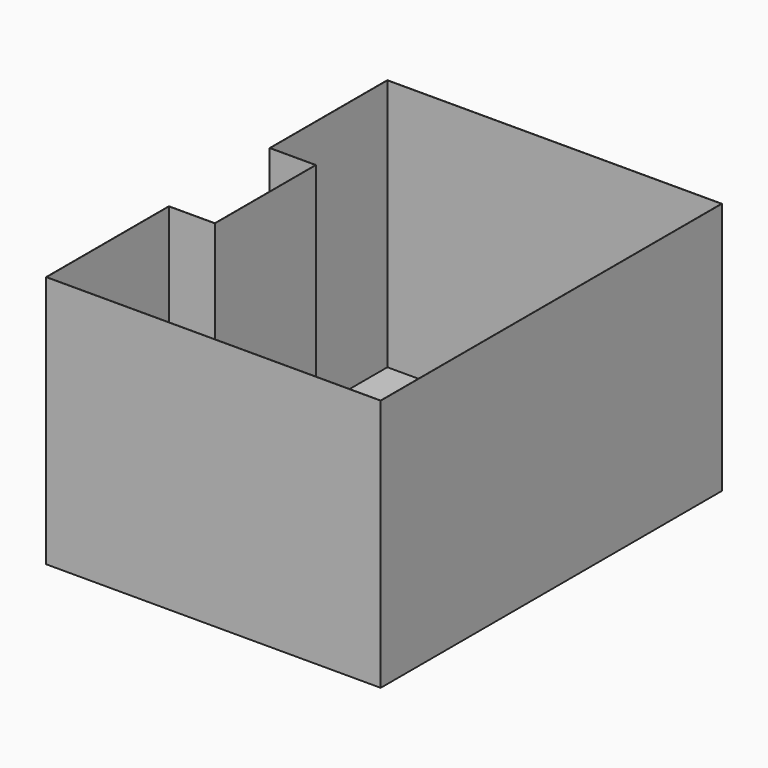
from build123d import *

# Parameters (mm, degrees)
F1_DEPTH = 2750
F2_T     = -2.5


with BuildPart() as f1:
    # F0 (on Top) → F1 (new body)
    with BuildSketch(Plane.XY):
        Polygon((0, 1670), (0, 0), (3640, 0), (3640, 4640), (0, 4640), (0, 3040), (500, 3040), (500, 1670), align=None)
    extrude(amount=F1_DEPTH)

    # F2
    f2_openings = [f1.faces().sort_by_distance(p)[0] for p in [
        (1886.366958, 2318.520482, 2750),
    ]]
    offset(amount=F2_T, openings=f2_openings, kind=Kind.INTERSECTION)


solid = f1.part
